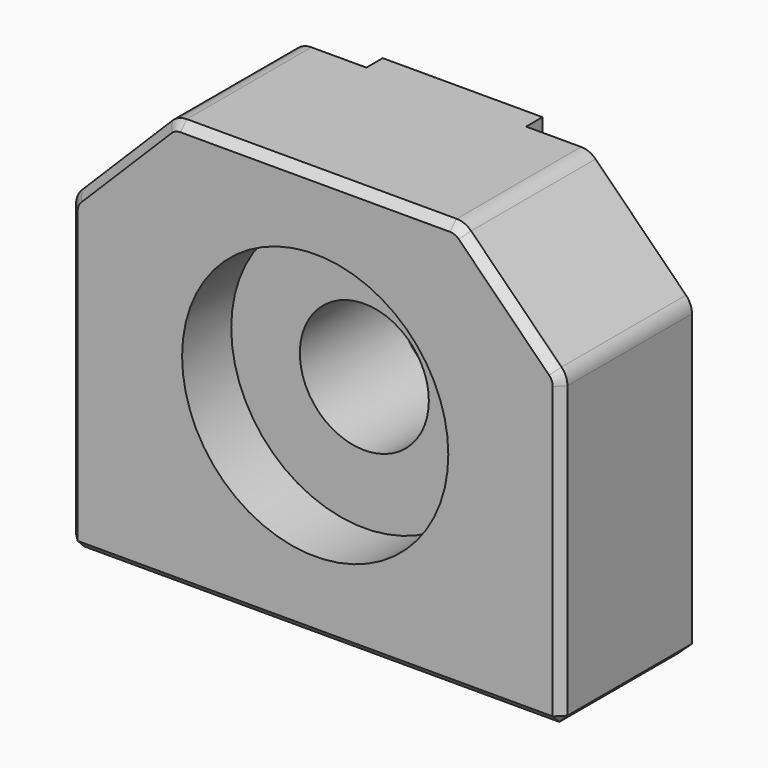
from build123d import *

# Parameters (mm, degrees)
CYLINDER_R        = 3.15
CYLINDER_DEPTH    = 10
CYLINDER001_R     = 6.5
CYLINDER001_DEPTH = 3
BOX_W             = 24
BOX_H             = 8
BOX_DEPTH         = 20
CHAMFER_SIZE      = 5
BOX001_W          = 7.8
BOX001_H          = 1
BOX001_DEPTH      = 20
FILLET_R          = 1
CHAMFER001_SIZE   = 0.4


with BuildPart() as cylinder:
    # Cylinder → Cylinder (new body)
    with BuildSketch(Plane(origin=(0, 0, 10), x_dir=(1, 0, 0), z_dir=(0, 1, 0))):
        Circle(CYLINDER_R)
    extrude(amount=CYLINDER_DEPTH)


with BuildPart() as fusion:
    # Cylinder001 → Cylinder001 (new body)
    with BuildSketch(Plane(origin=(0, 0, 10), x_dir=(1, 0, 0), z_dir=(0, 1, 0))):
        Circle(CYLINDER001_R)
    extrude(amount=CYLINDER001_DEPTH)

    # Fusion: union Cylinder
    add(cylinder.part)


with BuildPart() as chamfer_body:
    # Box → Box (new body)
    with BuildSketch(Plane(origin=(-12, 0, 0), x_dir=(1, 0, 0), z_dir=(0, 0, 1))):
        with Locations((12, 4)):
            Rectangle(BOX_W, BOX_H)
    extrude(amount=BOX_DEPTH)

    # Chamfer
    chamfer_edges = [chamfer_body.edges().sort_by_distance(p)[0] for p in [
        (-12, 4, 20),
        (12, 4, 20),
    ]]
    chamfer(chamfer_edges, length=CHAMFER_SIZE)


with BuildPart() as chamfer001:
    # Box001 → Box001 (new body)
    with BuildSketch(Plane(origin=(-3.9, 8, 0), x_dir=(1, 0, 0), z_dir=(0, 0, 1))):
        with Locations((3.9, 0.5)):
            Rectangle(BOX001_W, BOX001_H)
    extrude(amount=BOX001_DEPTH)

    # Fusion001: union Chamfer body
    add(chamfer_body.part)

    # Cut: cut Fusion
    add(fusion.part, mode=Mode.SUBTRACT)

    # Fillet
    fillet_edges = [chamfer001.edges().sort_by_distance(p)[0] for p in [
        (-12, 4, 15),
        (-7, 4, 20),
        (12, 4, 15),
        (7, 4, 20),
    ]]
    fillet(fillet_edges, radius=FILLET_R)

    # Chamfer001
    chamfer001_edges = [chamfer001.edges().sort_by_distance(p)[0] for p in [
        (-12, 0, 7.292893),
        (-12, 4, 0),
        (12, 0, 7.292893),
        (0, 0, 0),
        (-11.92388, 0, 14.96847),
        (-9.5, 0, 17.5),
        (-6.96847, 0, 19.92388),
        (0, 0, 20),
        (6.96847, 0, 19.92388),
        (9.5, 0, 17.5),
        (11.92388, 0, 14.96847),
        (-7.95, 8, 0),
        (12, 4, 0),
        (7.95, 8, 0),
        (-3.9, 8.5, 0),
        (0, 9, 0),
        (3.9, 8.5, 0),
    ]]
    chamfer(chamfer001_edges, length=CHAMFER001_SIZE)


solid = chamfer001.part
